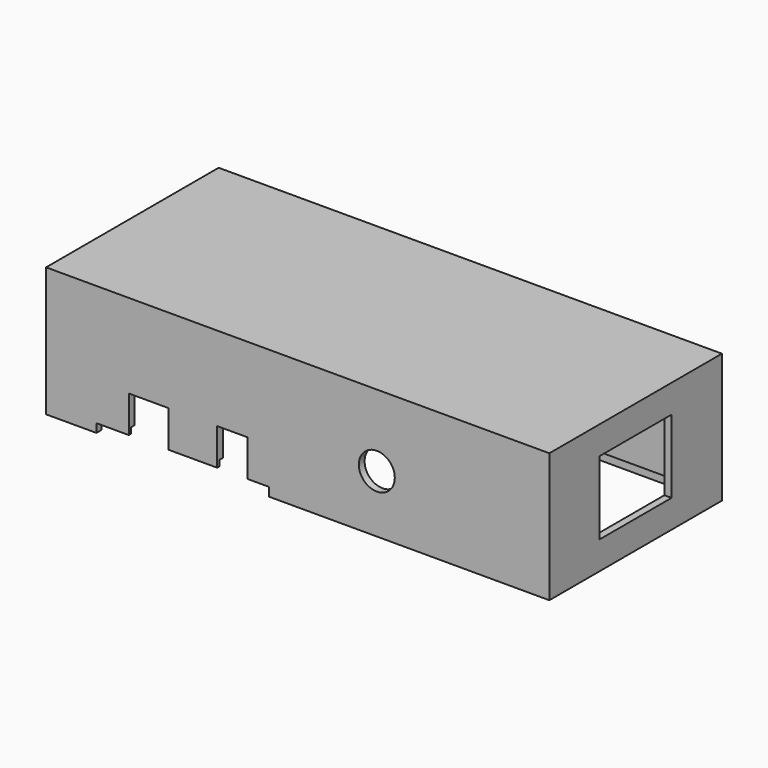
from build123d import *

# Parameters (mm, degrees)
F0_W      = 177.8
F0_H      = 76.2
F1_DEPTH  = 45.72
F2_T      = -2.54
F3_W      = 13.97
F3_H      = 16.002
F3_W_2    = 10.668
F4_DEPTH  = 2.54
F5_W      = 11.43
F5_H      = 2.54
F5_W_2    = 41.91
F5_W_3    = 7.62
F6_DEPTH  = 3.048
F8_DEPTH  = 2.54
F9_W      = 31.75
F9_H      = 25.908
F10_DEPTH = 2.54
F11_W     = 60.96
F11_H     = 1.5494
F12_DEPTH = 5.08
F13_W     = 7.62
F13_H     = 7.62
F14_DEPTH = 38.1
F15_R     = 1.5875
F16_DEPTH = 15.875
F17_R     = 6.35
F18_DEPTH = 2.54
F20_DEPTH = 2.794


with BuildPart() as f1:
    # F0 (on Top) → F1 (new body)
    with BuildSketch(Plane.XY):
        with Locations((-54.7677724445, 11.3618699834)):
            Rectangle(F0_W, F0_H)
    extrude(amount=F1_DEPTH)

    # F2
    f2_openings = [f1.faces().sort_by_distance(p)[0] for p in [
        (-54.767772, 11.36187, 0),
    ]]
    offset(amount=F2_T, openings=f2_openings)

    # F3 (on face) → F4 (cut)
    with BuildSketch(Plane.XZ.offset(26.7381300166)):
        with Locations((-107.4727724445, 8.001)):
            Rectangle(F3_W, F3_H)
        with Locations((-77.8817724445, 8.001)):
            Rectangle(F3_W_2, F3_H)
    extrude(amount=-F4_DEPTH, mode=Mode.SUBTRACT)

    # F5 (on face) → F6 (cut)
    with BuildSketch(Plane(origin=(0, 0, 0), x_dir=(1, 0, 0), z_dir=(0, 0, -1))):
        with Locations((-120.1727724445, 25.4681300166)):
            Rectangle(F5_W, F5_H)
        with Locations((-93.5027724445, 25.4681300166)):
            Rectangle(F5_W_2, F5_H)
        with Locations((-68.7377724445, 25.4681300166)):
            Rectangle(F5_W_3, F5_H)
    extrude(amount=-F6_DEPTH, mode=Mode.SUBTRACT)

    # F7 (on face) → F8 (cut)
    with BuildSketch(Plane(origin=(-143.6677724445, 0, 0), x_dir=(0, -1, 0), z_dir=(-1, 0, 0))):
        with BuildLine():
            Line((-16.6958699834, 32.385), (-16.6958699834, 30.353))
            Line((-16.6958699834, 30.353), (-6.0378982208, 30.353))
            Line((-6.0378982208, 30.353), (-5.7738699834, 30.353))
            Line((-5.7738699834, 30.353), (-5.7738699834, 32.385))
            ThreePointArc((-5.7738699834, 32.385), (-6.2202392488, 33.4626307345), (-7.2978699834, 33.909))
            Line((-7.2978699834, 33.909), (-15.1718699834, 33.909))
            ThreePointArc((-15.1718699834, 33.909), (-16.2495007179, 33.4626307345), (-16.6958699834, 32.385))
        make_face()
        with BuildLine():
            Line((-6.0378982208, 30.353), (-16.6958699834, 30.353))
            ThreePointArc((-16.6958699834, 30.353), (-20.6471826766, 28.7163126933), (-22.2838699834, 24.765))
            Line((-22.2838699834, 24.765), (-22.2838699834, 18.415))
            ThreePointArc((-22.2838699834, 18.415), (-20.6471826766, 14.4636873067), (-16.6958699834, 12.827))
            Line((-16.6958699834, 12.827), (-6.0278699834, 12.827))
            ThreePointArc((-6.0278699834, 12.827), (-2.0765572901, 14.4636873067), (-0.4398699834, 18.415))
            Line((-0.4398699834, 18.415), (-0.4398699834, 24.765))
            ThreePointArc((-0.4398699834, 24.765), (-1.5576455077, 28.1180340196), (-4.4637916501, 30.1296437876))
            Line((-4.4637916501, 30.1296437876), (-5.7738699834, 30.353))
            Line((-5.7738699834, 30.353), (-6.0378982208, 30.353))
        make_face()
    extrude(amount=-F8_DEPTH, mode=Mode.SUBTRACT)

    # F9 (on face) → F10 (cut)
    with BuildSketch(Plane.YZ.offset(34.1322275555)):
        with Locations((11.3618699834, 22.86)):
            Rectangle(F9_W, F9_H)
    extrude(amount=-F10_DEPTH, mode=Mode.SUBTRACT)

    # F11 (on face) → F12 (cut)
    with BuildSketch(Plane(origin=(0, 0, 0), x_dir=(1, 0, 0), z_dir=(0, 0, -1))):
        with Locations((-95.4077724445, 24.9728300166)):
            Rectangle(F11_W, F11_H)
    extrude(amount=-F12_DEPTH, mode=Mode.SUBTRACT)

    # F13 (on face) → F14 (join)
    with BuildSketch(Plane(origin=(0, 0, 43.18), x_dir=(1, 0, 0), z_dir=(0, 0, -1))):
        with Locations((27.7822275555, 20.3881300166)):
            Rectangle(F13_W, F13_H)
        with Locations((27.7822275555, -43.1118699834)):
            Rectangle(F13_W, F13_H)
        with Locations((-137.3177724445, 20.3881300166)):
            Rectangle(F13_W, F13_H)
        with Locations((-137.3177724445, -43.1118699834)):
            Rectangle(F13_W, F13_H)
    extrude(amount=F14_DEPTH)

    # F15 (on face) → F16 (cut)
    with BuildSketch(Plane(origin=(0, 0, 5.08), x_dir=(1, 0, 0), z_dir=(0, 0, -1))):
        with Locations((-137.3177724445, 20.3881300166)):
            Circle(F15_R)
        with Locations((-137.3177724445, -43.1118699834)):
            Circle(F15_R)
        with Locations((27.7822275555, 20.3881300166)):
            Circle(F15_R)
        with Locations((27.7822275555, -43.1118699834)):
            Circle(F15_R)
    extrude(amount=-F16_DEPTH, mode=Mode.SUBTRACT)

    # F17 (on face) → F18 (cut)
    with BuildSketch(Plane.XZ.offset(26.7381300166)):
        with Locations((-26.8277724445, 20.32)):
            Circle(F17_R)
    extrude(amount=-F18_DEPTH, mode=Mode.SUBTRACT)

    # F19 (on face) → F20 (cut)
    with BuildSketch(Plane(origin=(0, 0, 0), x_dir=(1, 0, 0), z_dir=(0, 0, -1))):
        Polygon((-125.8877724445, 24.5791300166), (-141.5087724445, 24.5791300166), (-141.5087724445, -47.3028699834), (31.9732275555, -47.3028699834), (31.9732275555, 24.5791300166), (-64.9277724445, 24.5791300166), (-64.9277724445, 24.1981300166), (31.5922275555, 24.1981300166), (31.5922275555, -46.9218699834), (-141.1277724445, -46.9218699834), (-141.1277724445, 24.1981300166), (-125.8877724445, 24.1981300166), align=None)
    extrude(amount=-F20_DEPTH, mode=Mode.SUBTRACT)


solid = f1.part
